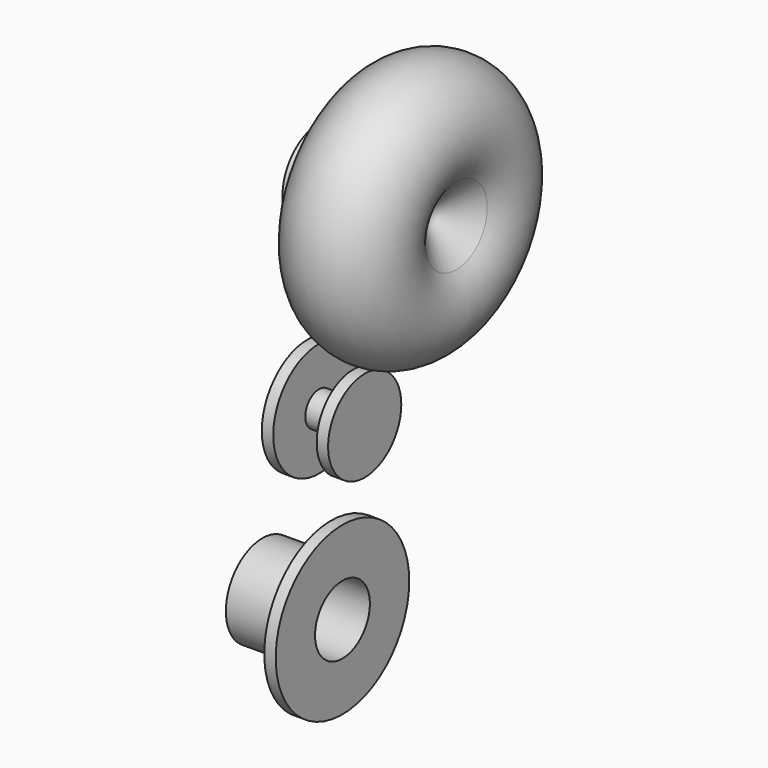
from build123d import *

# Parameters (mm, degrees)
F0_R      = 7.5
F1_DEPTH  = 15
F2_R      = 20
F2_R_2    = 7.5
F3_DEPTH  = 5
F4_R      = 20
F4_R_2    = 15
F5_DEPTH  = 35
F6_R      = 36.5
F6_R_2    = 20
F7_DEPTH  = 5
F8_R      = 25
F8_R_2    = 7.5
F9_DEPTH  = 5
F10_R     = 20
F11_DEPTH = 15


with BuildPart() as f1:
    # F0 (on Right) → F1 (new body)
    with BuildSketch(Plane.YZ):
        Circle(F0_R)
    extrude(amount=F1_DEPTH)

    # F2 (on face) → F3 (join)
    with BuildSketch(Plane.YZ.offset(15)):
        Circle(F2_R)
        Circle(F2_R_2, mode=Mode.SUBTRACT)
        Circle(F2_R_2)
    extrude(amount=F3_DEPTH)

    # F8 (on face) → F9 (join)
    with BuildSketch(Plane(origin=(0, 0, 0), x_dir=(0, -1, 0), z_dir=(-1, 0, 0))):
        Circle(F8_R)
        Circle(F8_R_2, mode=Mode.SUBTRACT)
        Circle(F8_R_2)
    extrude(amount=F9_DEPTH)


with BuildPart() as f5:
    # F4 (on Right) → F5 (new body)
    with BuildSketch(Plane.YZ):
        with Locations((-30.9183038771, -57.2418384254)):
            Circle(F4_R)
        with Locations((-30.9183038771, -57.2418384254)):
            Circle(F4_R_2, mode=Mode.SUBTRACT)
    extrude(amount=F5_DEPTH)

    # F6 (on face) → F7 (join)
    with BuildSketch(Plane.YZ.offset(35)):
        with Locations((-30.9183038771, -57.2418384254)):
            Circle(F6_R)
        with Locations((-30.9183038771, -57.2418384254)):
            Circle(F6_R_2, mode=Mode.SUBTRACT)
    extrude(amount=-F7_DEPTH)


with BuildPart() as f11:
    # F10 (on Right) → F11 (new body)
    with BuildSketch(Plane.YZ):
        with Locations((0, 90)):
            Circle(F10_R)
    extrude(amount=F11_DEPTH)

    # F12 (on Front) → F13 (revolve)
    with BuildSketch(Plane.XZ):
        with BuildLine():
            Line((15, 90), (15, 70))
            Line((15, 70), (20, 73))
            ThreePointArc((20, 73), (40, 33), (60, 73))
            Line((60, 73), (45.1927914843, 90))
            Line((45.1927914843, 90), (15, 90))
        make_face()
    revolve(axis=Axis((30.0963957421, 0, 90), (-1, 0, 0)))


solid = Compound([f1.part, f5.part, f11.part])
